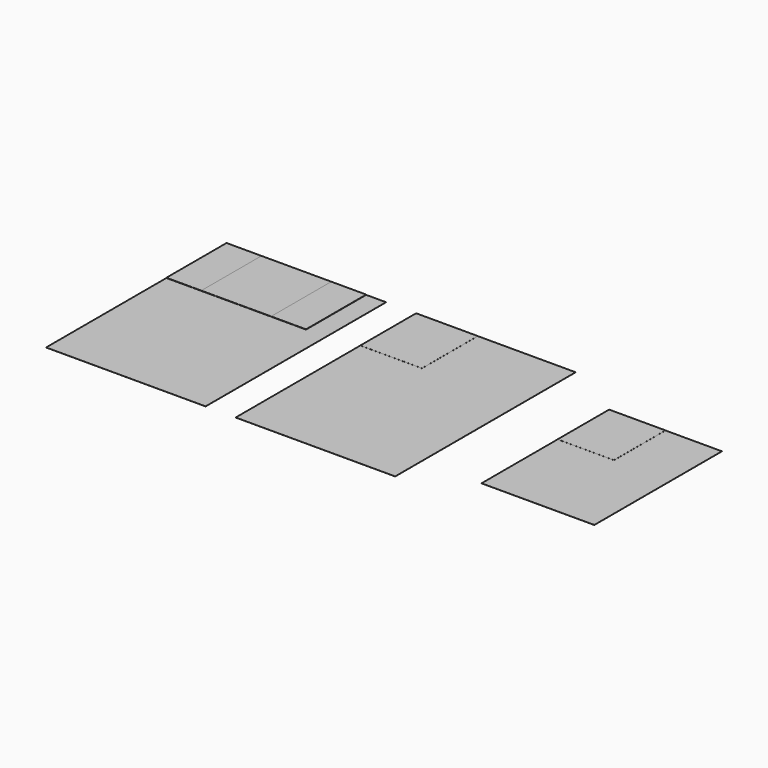
from build123d import *

# Parameters (mm, degrees)
F0_W     = 297
F0_H     = 420
F0_W_2   = 210
F0_H_2   = 297
F1_DEPTH = 0.1
F2_W     = 260
F2_H     = 140
F3_DEPTH = 0.1
F4_W     = 65
F4_H     = 140
F5_DEPTH = 0.5
F4_W_2   = 130
F6_DEPTH = 0.5
F7_DEPTH = 0.5
F2_W_2   = 114.9
F2_H_2   = 130
F8_DEPTH = 0.1
F9_DEPTH = 0.1


with BuildPart() as f1:
    # F0 (on Top) → F1 (new body)
    with BuildSketch(Plane.XY):
        Rectangle(F0_W, F0_H)
        with Locations((352.981538, 0)):
            Rectangle(F0_W, F0_H)
        with Locations((718.048334, 0)):
            Rectangle(F0_W_2, F0_H_2)
    extrude(amount=F1_DEPTH)


with BuildPart() as f3:
    # F2 (on face) → F3 (new body)
    with BuildSketch(Plane.XY.offset(0.1)):
        with Locations((-18.5, 140)):
            Rectangle(F2_W, F2_H)
    extrude(amount=F3_DEPTH)


with BuildPart() as f5:
    # F4 (on face) → F5 (new body)
    with BuildSketch(Plane.XY.offset(0.1)):
        with Locations((-116, 140)):
            Rectangle(F4_W, F4_H)
    extrude(amount=F5_DEPTH)


with BuildPart() as f6:
    # F4 (on face) → F6 (new body)
    with BuildSketch(Plane.XY.offset(0.1)):
        with Locations((-18.5, 140)):
            Rectangle(F4_W_2, F4_H)
    extrude(amount=F6_DEPTH)


with BuildPart() as f7:
    # F4 (on face) → F7 (new body)
    with BuildSketch(Plane.XY.offset(0.1)):
        with Locations((79, 140)):
            Rectangle(F4_W, F4_H)
    extrude(amount=F7_DEPTH)


with BuildPart() as f8:
    # F2 (on face) → F8 (new body)
    with BuildSketch(Plane.XY.offset(0.1)):
        with Locations((261.931538, 145)):
            Rectangle(F2_W_2, F2_H_2)
    extrude(amount=F8_DEPTH)


with BuildPart() as f9:
    # F4 (on face) → F9 (new body)
    with BuildSketch(Plane.XY.offset(0.1)):
        Polygon((718.048334, 148.5), (613.048334, 148.5), (613.048334, 28.5), (718.000201, 28.5), (718.048334, 28.5), align=None)
    extrude(amount=F9_DEPTH)


solid = Compound([f1.part, f3.part, f5.part, f6.part, f7.part, f8.part, f9.part])
